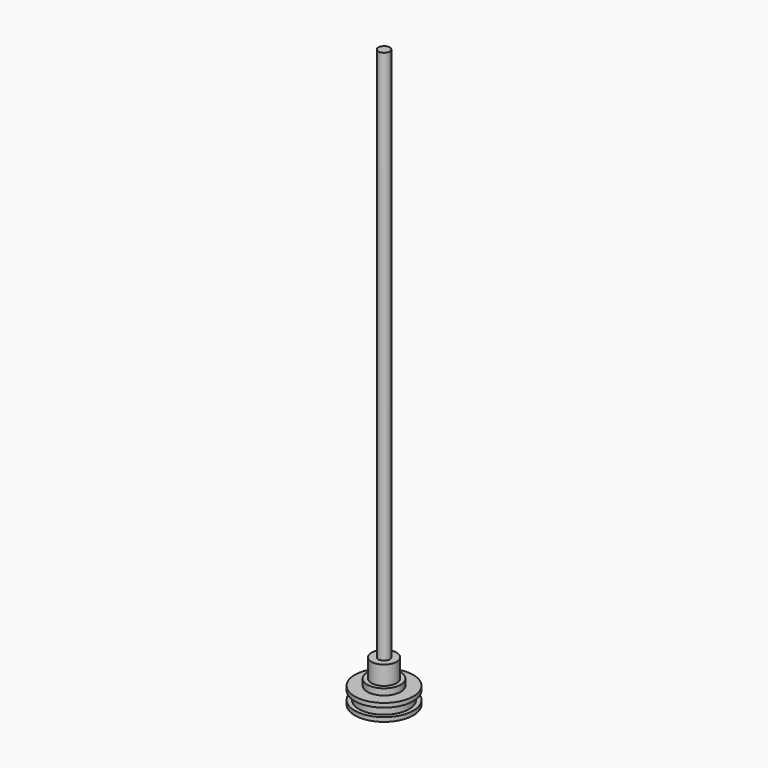
from build123d import *

# Parameters (mm, degrees)
F0_R      = 11.1125
F1_DEPTH  = 1.5875
F2_R      = 9.525
F3_DEPTH  = 3.175
F4_R      = 11.1125
F5_DEPTH  = 1.5875
F6_R      = 6.35
F7_DEPTH  = 2.38125
F8_R      = 4.7625
F9_DEPTH  = 7.112
F10_R     = 2.15265
F11_DEPTH = 203.2


with BuildPart() as f1:
    # F0 (on Top) → F1 (new body)
    with BuildSketch(Plane.XY):
        Circle(F0_R)
    extrude(amount=F1_DEPTH)

    # F2 (on face) → F3 (join)
    with BuildSketch(Plane.XY.offset(1.5875)):
        Circle(F2_R)
    extrude(amount=F3_DEPTH)

    # F4 (on face) → F5 (join)
    with BuildSketch(Plane.XY.offset(4.7625)):
        Circle(F4_R)
    extrude(amount=F5_DEPTH)

    # F6 (on face) → F7 (join)
    with BuildSketch(Plane.XY.offset(6.35)):
        Circle(F6_R)
    extrude(amount=F7_DEPTH)

    # F8 (on face) → F9 (join)
    with BuildSketch(Plane.XY.offset(8.73125)):
        Circle(F8_R)
    extrude(amount=F9_DEPTH)

    # F10 (on face) → F11 (join)
    with BuildSketch(Plane.XY.offset(15.84325)):
        Circle(F10_R)
    extrude(amount=F11_DEPTH)


solid = f1.part
